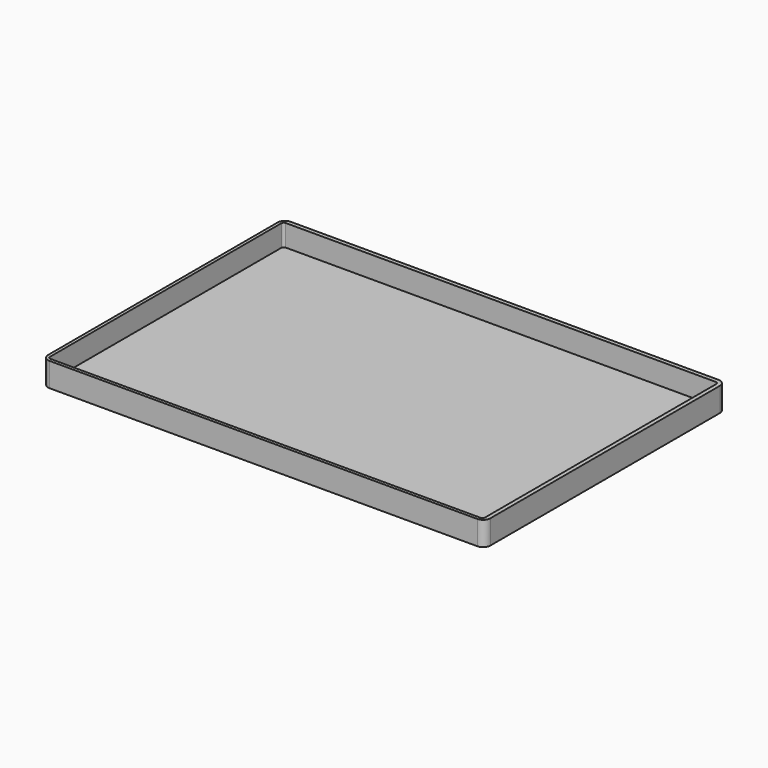
from build123d import *

# Parameters (mm, degrees)
BOX044_W      = 181
BOX044_H      = 122.4
BOX044_DEPTH  = 10
BOX045_W      = 184
BOX045_H      = 125.4
BOX045_DEPTH  = 10
FILLET005_1_R = 3
FILLET005_2_R = 1


with BuildPart() as cube022:
    # Box044 → Box044 (new body)
    with BuildSketch(Plane(origin=(-0.2, -0.2, 0), x_dir=(1, 0, 0), z_dir=(0, 0, 1))):
        with Locations((90.5, 61.2)):
            Rectangle(BOX044_W, BOX044_H)
    extrude(amount=BOX044_DEPTH)


with BuildPart() as fillet005:
    # Box045 → Box045 (new body)
    with BuildSketch(Plane(origin=(-1.5, -1.5, -1), x_dir=(1, 0, 0), z_dir=(0, 0, 1))):
        with Locations((92, 62.7)):
            Rectangle(BOX045_W, BOX045_H)
    extrude(amount=BOX045_DEPTH)

    # Cut007: cut Cube022
    add(cube022.part, mode=Mode.SUBTRACT)

    # Fillet005 1
    fillet005_1_edges = [fillet005.edges().sort_by_distance(p)[0] for p in [
        (-1.5, -1.5, 4),
        (-1.5, 123.9, 4),
        (182.5, -1.5, 4),
        (182.5, 123.9, 4),
    ]]
    fillet(fillet005_1_edges, radius=FILLET005_1_R)

    # Fillet005 2
    fillet005_2_edges = [fillet005.edges().sort_by_distance(p)[0] for p in [
        (180.8, -0.2, 4.5),
        (-0.2, -0.2, 4.5),
        (180.8, 122.2, 4.5),
        (-0.2, 122.2, 4.5),
    ]]
    fillet(fillet005_2_edges, radius=FILLET005_2_R)


solid = fillet005.part
